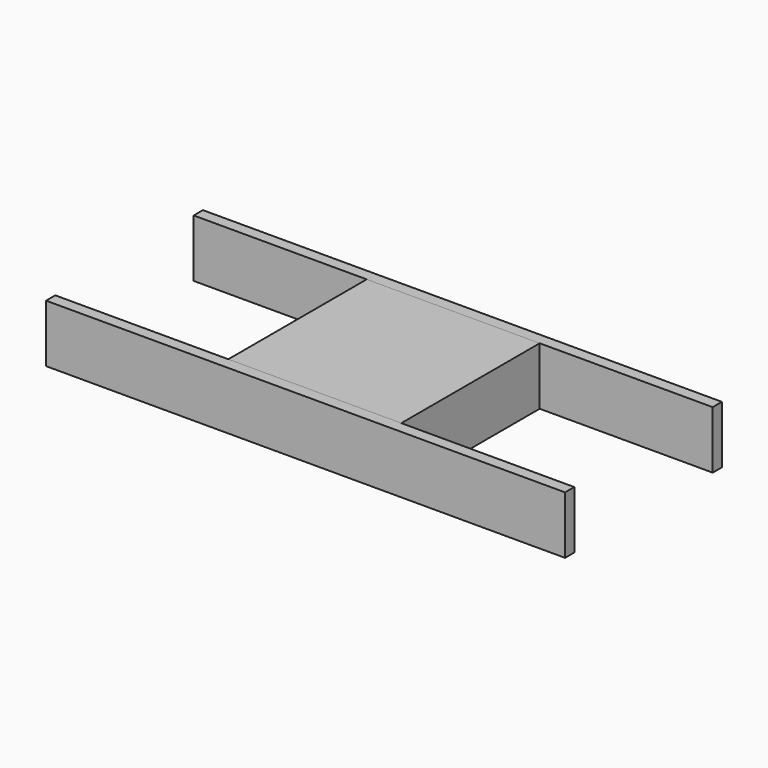
from build123d import *

# Parameters (mm, degrees)
BOX_W        = 15
BOX_H        = 15
BOX_DEPTH    = 5
BOX003_W     = 45
BOX003_H     = 1
BOX003_DEPTH = 5
BOX004_W     = 45
BOX004_H     = 1
BOX004_DEPTH = 5


with BuildPart() as cube:
    # Box → Box (new body)
    with BuildSketch(Plane(origin=(0, 6, 0), x_dir=(1, 0, 0), z_dir=(0, 0, 1))):
        with Locations((7.5, 7.5)):
            Rectangle(BOX_W, BOX_H)
    extrude(amount=BOX_DEPTH)


with BuildPart() as cube003:
    # Box003 → Box003 (new body)
    with BuildSketch(Plane(origin=(-15, 5, 0), x_dir=(1, 0, 0), z_dir=(0, 0, 1))):
        with Locations((22.5, 0.5)):
            Rectangle(BOX003_W, BOX003_H)
    extrude(amount=BOX003_DEPTH)


with BuildPart() as cube004:
    # Box004 → Box004 (new body)
    with BuildSketch(Plane(origin=(-15, 21, 0), x_dir=(1, 0, 0), z_dir=(0, 0, 1))):
        with Locations((22.5, 0.5)):
            Rectangle(BOX004_W, BOX004_H)
    extrude(amount=BOX004_DEPTH)


solid = Compound([cube.part, cube003.part, cube004.part])
